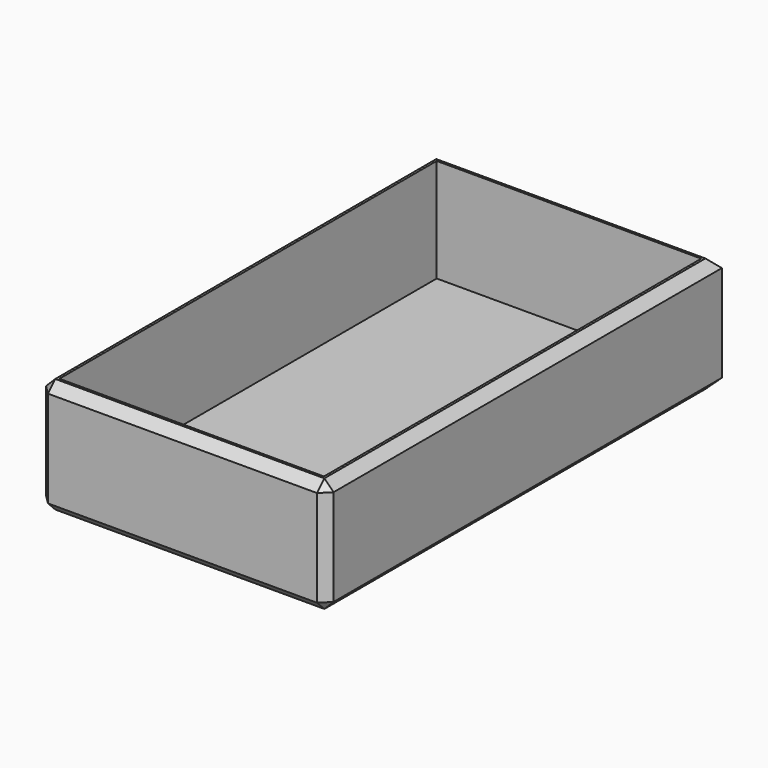
from build123d import *

# Parameters (mm, degrees)
F0_W     = 62.507808
F0_H     = 107.542976
F1_DEPTH = 12.5
F2_T     = -2.5
F3_SIZE  = 2


with BuildPart() as f1:
    # F0 (on Top) → F1 (new body, symmetric)
    with BuildSketch(Plane.XY):
        Rectangle(F0_W, F0_H)
    extrude(amount=F1_DEPTH, both=True)

    # F2
    f2_openings = [f1.faces().sort_by_distance(p)[0] for p in [
        (0, 0, 12.5),
    ]]
    offset(amount=F2_T, openings=f2_openings)

    # F3
    f3_edges = [f1.edges().sort_by_distance(p)[0] for p in [
        (-31.253904, 53.771488, 0),
        (-31.253904, 0, -12.5),
        (-31.253904, 0, 12.5),
        (0, 53.771488, -12.5),
        (0, 53.771488, 12.5),
        (31.253904, 0, 12.5),
        (31.253904, 0, -12.5),
        (31.253904, -53.771488, 0),
        (0, -53.771488, -12.5),
        (0, -53.771488, 12.5),
        (-31.253904, -53.771488, 0),
    ]]
    chamfer(f3_edges, length=F3_SIZE)


solid = f1.part
